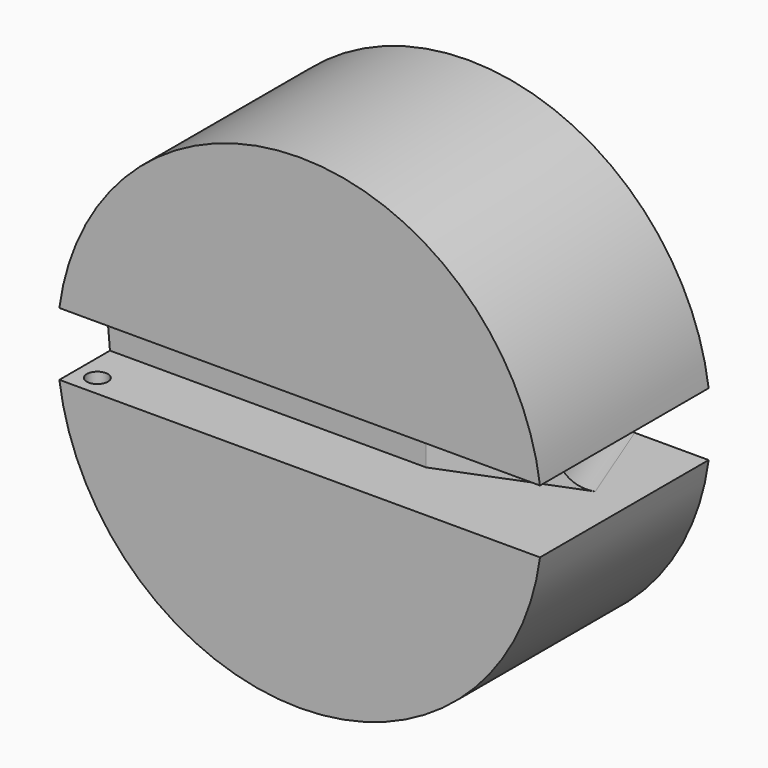
from build123d import *

# Parameters (mm, degrees)
F0_R      = 11.5
F1_DEPTH  = 10
F2_W      = 30.00446
F2_H      = 3
F3_DEPTH  = 3
F4_R      = 0.5
F5_DEPTH  = 1
F6_R      = 0.5
F7_DEPTH  = 1
F9_DEPTH  = 3
F11_DEPTH = 5


with BuildPart() as f1:
    # F0 (on Front) → F1 (new body)
    with BuildSketch(Plane.XZ):
        Circle(F0_R)
    extrude(amount=F1_DEPTH)

    # F2 (on face) → F3 (cut)
    with BuildSketch(Plane.XZ.offset(10)):
        Rectangle(F2_W, F2_H)
    extrude(amount=-F3_DEPTH, mode=Mode.SUBTRACT)

    # F4 (on face) → F5 (cut)
    with BuildSketch(Plane(origin=(0, 0, 1.5), x_dir=(1, 0, 0), z_dir=(0, 0, -1))):
        with Locations((-10.401754, 9)):
            Circle(F4_R)
    extrude(amount=-F5_DEPTH, mode=Mode.SUBTRACT)

    # F6 (on face) → F7 (cut)
    with BuildSketch(Plane.XY.offset(-1.5)):
        with Locations((-10.401754, -9)):
            Circle(F6_R)
    extrude(amount=-F7_DEPTH, mode=Mode.SUBTRACT)

    # F8 (on face) → F9 (cut)
    with BuildSketch(Plane.XY.offset(-1.5)):
        Polygon((13.954913, -2.917858), (3.598246, -7), (11.401754, -7), align=None)
        Polygon((14.351814, -7.2972), (13.954913, -2.917858), (11.401754, -7), align=None)
    extrude(amount=F9_DEPTH, mode=Mode.SUBTRACT)

    # F10 (on face) → F11 (cut)
    with BuildSketch(Plane(origin=(2.871931, -7.286281, 0), x_dir=(0.93034, 0.366699, 0), z_dir=(0.366699, -0.93034, 0))):
        with BuildLine():
            ThreePointArc((7.342269, -1.5), (8.402929, -1.06066), (8.842269, 0))
            ThreePointArc((8.842269, 0), (8.402929, 1.06066), (7.342269, 1.5))
            ThreePointArc((7.342269, 1.5), (5.842269, 0), (7.342269, -1.5))
        make_face()
        with BuildLine():
            ThreePointArc((7.342269, 1.5), (8.402929, 1.06066), (8.842269, 0))
            ThreePointArc((8.842269, 0), (8.402929, -1.06066), (7.342269, -1.5))
            Line((7.342269, -1.5), (11.188243, -1.5))
            Line((11.188243, -1.5), (11.188243, 1.5))
            Line((11.188243, 1.5), (7.342269, 1.5))
        make_face()
    extrude(amount=-F11_DEPTH, mode=Mode.SUBTRACT)


solid = f1.part
